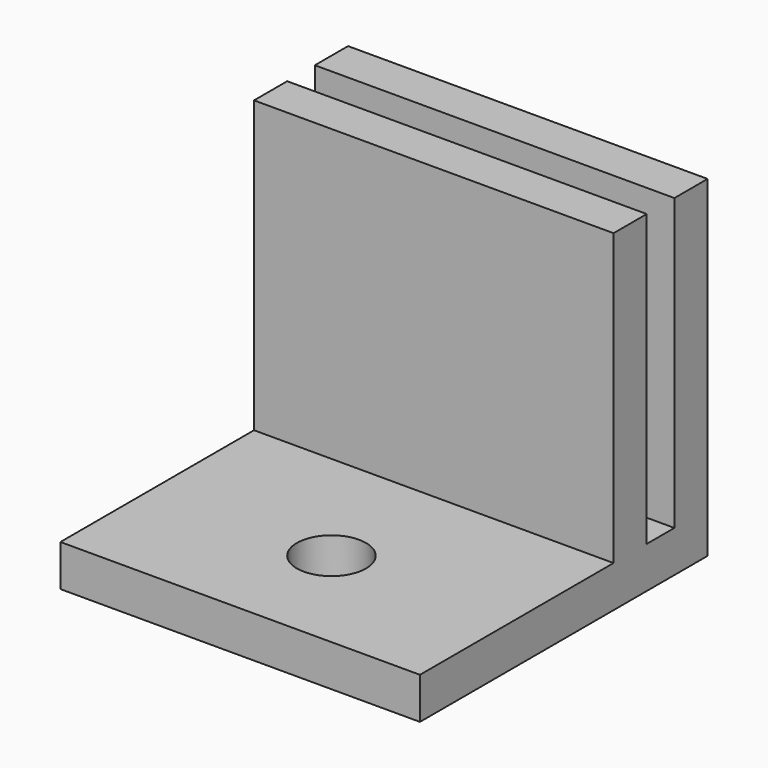
from build123d import *

# Parameters (mm, degrees)
F0_W     = 26
F0_H     = 3
F1_DEPTH = 24
F0_H_2   = 2.5
F2_DEPTH = 3


with BuildPart() as f1:
    # F0 (on Top) → F1 (new body)
    with BuildSketch(Plane.XY):
        with Locations((0, 11.5)):
            Rectangle(F0_W, F0_H)
        with Locations((0, 6)):
            Rectangle(F0_W, F0_H)
    extrude(amount=F1_DEPTH)

    # F0 (on Top) → F2 (join)
    with BuildSketch(Plane.XY):
        with Locations((0, 11.5)):
            Rectangle(F0_W, F0_H)
        with Locations((0, 8.75)):
            Rectangle(F0_W, F0_H_2)
        with Locations((0, 6)):
            Rectangle(F0_W, F0_H)
        Polygon((0, -13), (13, -13), (13, 4.5), (-13, 4.5), (-13, -13), align=None)
        with BuildLine():
            ThreePointArc((2.5, -4.75), (1.767767, -6.517767), (0, -7.25))
            ThreePointArc((0, -7.25), (-1.767767, -2.982233), (2.5, -4.75))
        make_face(mode=Mode.SUBTRACT)
    extrude(amount=F2_DEPTH)


solid = f1.part
